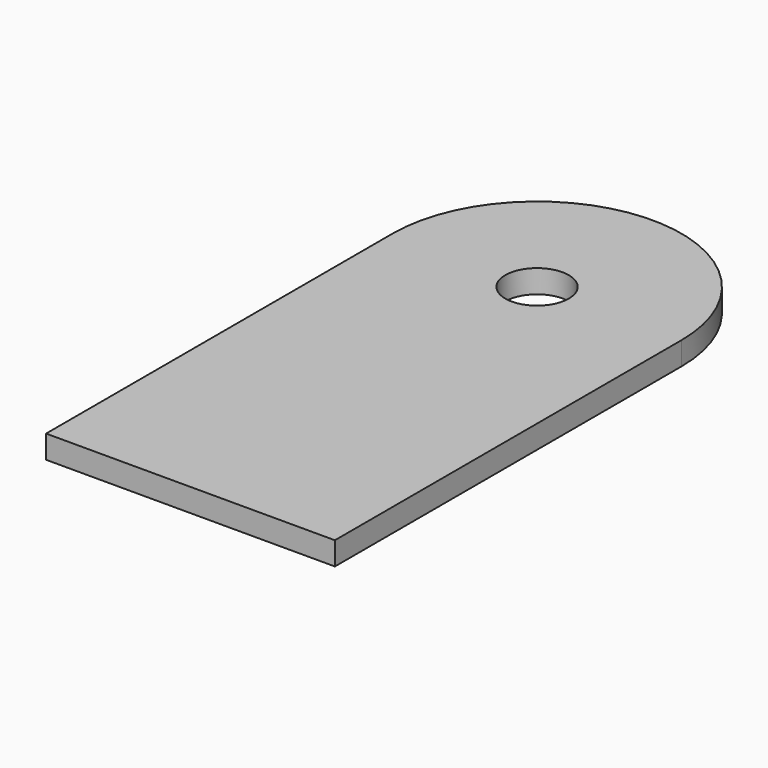
from build123d import *

# Parameters (mm, degrees)
F1_DEPTH = 4


with BuildPart() as f1:
    # F0 (on Top) → F1 (new body)
    with BuildSketch(Plane.XY):
        with BuildLine():
            Line((22.830044, -28.262451), (22.830044, 46.737549))
            Line((22.830044, 46.737549), (3.330044, 46.737549))
            ThreePointArc((3.330044, 46.737549), (-2.169956, 41.237549), (-7.669956, 46.737549))
            Line((-7.669956, 46.737549), (-27.169956, 46.737549))
            Line((-27.169956, 46.737549), (-27.169956, -28.262451))
            Line((-27.169956, -28.262451), (22.830044, -28.262451))
        make_face()
        with BuildLine():
            Line((3.330044, 46.737549), (22.830044, 46.737549))
            ThreePointArc((22.830044, 46.737549), (-2.169956, 71.737549), (-27.169956, 46.737549))
            Line((-27.169956, 46.737549), (-7.669956, 46.737549))
            ThreePointArc((-7.669956, 46.737549), (-2.169956, 52.237549), (3.330044, 46.737549))
        make_face()
    extrude(amount=F1_DEPTH)


solid = f1.part
